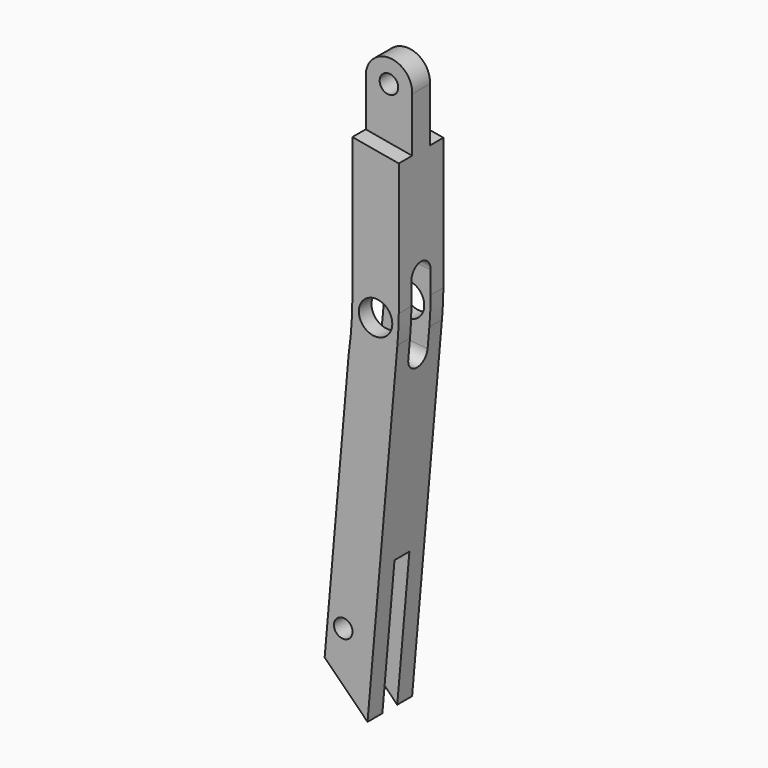
from build123d import *

# Parameters (mm, degrees)
F0_R     = 50
F0_R_2   = 90
F1_DEPTH = 150
F2_DEPTH = 60
F3_W     = 100
F3_H     = 750
F4_DEPTH = 502.2501499836


with BuildPart() as f1:
    # F0 (on Front) → F1 (new body, symmetric)
    with BuildSketch(Plane.XZ):
        with BuildLine():
            Line((124.8228227847, 770.9807370697), (-124.8228227847, 815))
            Line((-124.8228227847, 815), (-124.8228227847, 60))
            ThreePointArc((-124.8228227847, 60), (-129.8865626035, -82.2298063502), (-145.0521405991, -223.7393979666))
            Line((-145.0521405991, -223.7393979666), (-274.1412275364, -1699.2344133757))
            Line((-274.1412275364, -1699.2344133757), (-43.3756409121, -1930))
            Line((-43.3756409121, -1930), (117.3236608062, -93.1985763421))
            ThreePointArc((117.3236608062, -93.1985763421), (122.5424011541, -16.6712044007), (124.8228227847, 60))
            Line((124.8228227847, 60), (124.8228227847, 770.9807370697))
        make_face()
        with Locations((-174.1412275364, -1529.2344133757)):
            Circle(F0_R, mode=Mode.SUBTRACT)
        Circle(F0_R_2, mode=Mode.SUBTRACT)
    extrude(amount=F1_DEPTH, both=True)

    # F0 (on Front) → F2 (join, symmetric)
    with BuildSketch(Plane.XZ):
        with BuildLine():
            ThreePointArc((124.8228227847, 1063.346962193), (0, 1195), (-124.8228227847, 1063.346962193))
            Line((-124.8228227847, 1063.346962193), (-124.8228227847, 815))
            Line((-124.8228227847, 815), (124.8228227847, 770.9807370697))
            Line((124.8228227847, 770.9807370697), (124.8228227847, 1063.346962193))
        make_face()
        with Locations((0, 1070)):
            Circle(F0_R, mode=Mode.SUBTRACT)
    extrude(amount=F2_DEPTH, both=True)

    # F3 (on face) → F4 (cut, through all)
    with BuildSketch(Plane(origin=(124.5243372615, 0, -10.8944678435), x_dir=(0, 1, 0), z_dir=(0.9961946981, 0, -0.0871557427))):
        with BuildLine():
            Line((65, -82.6184968222), (65, 190.4526642196))
            ThreePointArc((65, 190.4526642196), (0, 255.4526642196), (-65, 190.4526642196))
            Line((-65, 190.4526642196), (-65, -82.6184968222))
            Line((-65, -82.6184968222), (65, -82.6184968222))
        make_face()
        with BuildLine():
            Line((65, -189.5473357804), (65, -82.6184968222))
            Line((65, -82.6184968222), (-65, -82.6184968222))
            Line((-65, -82.6184968222), (-65, -189.5473357804))
            ThreePointArc((-65, -189.5473357804), (0, -254.5473357804), (65, -189.5473357804))
        make_face()
        with Locations((0, -1551.4362035179)):
            Rectangle(F3_W, F3_H)
    extrude(amount=-F4_DEPTH, mode=Mode.SUBTRACT)


solid = f1.part
